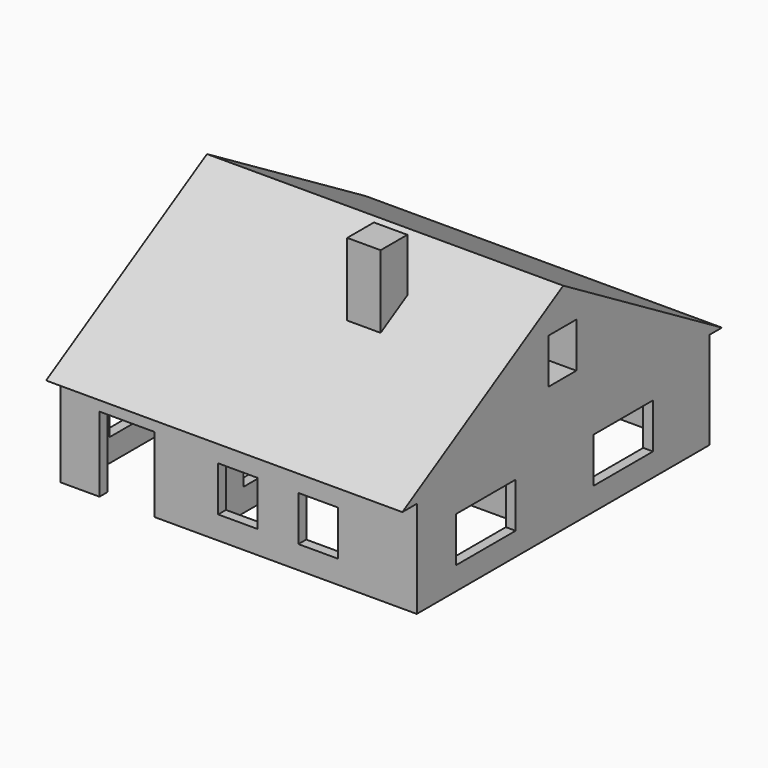
from build123d import *

# Parameters (mm, degrees)
F0_W     = 6171.556324
F0_H     = 6340.000004
F1_DEPTH = 1680
F2_W     = 952.570618
F2_H     = 1298.453808
F2_W_2   = 681.514025
F2_H_2   = 780.121654
F2_W_3   = 681.514024
F3_DEPTH = 1140
F5_DEPTH = 6170
F6_W     = 1290.790233
F6_H     = 780.121654
F6_W_2   = 605.204105
F7_DEPTH = 7440
F8_W     = 578.701853
F8_H     = 578.701853
F9_DEPTH = 4160


with BuildPart() as f1:
    # F0 (on Top) → F1 (new body)
    with BuildSketch(Plane.XY):
        with Locations((2915.77816, 3000)):
            Rectangle(F0_W, F0_H)
        Polygon((2154.120207, 0), (0, 0), (0, 6000), (5831.55632, 6000), (5831.55632, 2938.966513), (5831.55632, 2768.966436), (5831.55632, 0), (2324.120283, 0), align=None, mode=Mode.SUBTRACT)
        Polygon((2154.120207, 2938.966513), (2154.120207, 0), (2324.120283, 0), (2324.120283, 2768.966436), (5831.55632, 2768.966436), (5831.55632, 2938.966513), align=None)
    extrude(amount=F1_DEPTH)

    # F2 (on face) → F3 (cut)
    with BuildSketch(Plane.XZ.offset(170.000002)):
        with Locations((982.163459, 649.226904)):
            Rectangle(F2_W, F2_H)
        with Locations((2902.444481, 788.26423)):
            Rectangle(F2_W_2, F2_H_2)
        with Locations((4291.858077, 788.26423)):
            Rectangle(F2_W_3, F2_H_2)
    extrude(amount=-F3_DEPTH, mode=Mode.SUBTRACT)

    # F4 (on face) → F5 (join)
    with BuildSketch(Plane.YZ.offset(6001.556322)):
        Polygon((3000, 3716.6717), (-482.787311, 1680), (6435.312748, 1680), align=None)
    extrude(amount=-F5_DEPTH)

    # F6 (on face) → F7 (cut)
    with BuildSketch(Plane.YZ.offset(6001.556322)):
        with Locations((1324.805267, 788.26423)):
            Rectangle(F6_W, F6_H)
        with Locations((4298.410308, 788.26423)):
            Rectangle(F6_W, F6_H)
        with Locations((2981.075763, 2694.847748)):
            Rectangle(F6_W_2, F6_H)
    extrude(amount=-F7_DEPTH, mode=Mode.SUBTRACT)

    # F8 (on Top) → F9 (join)
    with BuildSketch(Plane.XY):
        with Locations((3667.22709, 1892.276228)):
            Rectangle(F8_W, F8_H)
    extrude(amount=F9_DEPTH)


solid = f1.part
